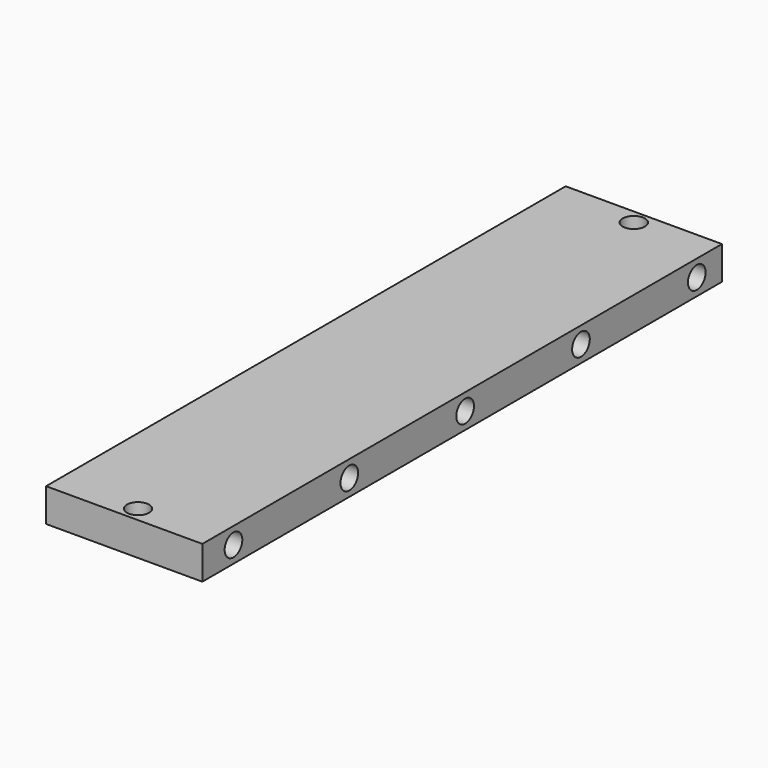
from build123d import *

# Parameters (mm, degrees)
F0_W     = 75.557
F0_H     = 16.102
F1_DEPTH = 313
F2_R     = 5.336
F3_DEPTH = 75.558
F4_DEPTH = 4
F5_DEPTH = 3
F6_R     = 5.363
F7_DEPTH = 25
F8_R     = 5.363
F9_DEPTH = 25


with BuildPart() as f1:
    # F0 (on Front) → F1 (new body)
    with BuildSketch(Plane.XZ):
        with Locations((-0.825944015, 22.4905000767)):
            Rectangle(F0_W, F0_H)
    extrude(amount=F1_DEPTH)

    # F2 (on face) → F3 (cut, through all)
    with BuildSketch(Plane(origin=(-38.604444015, 0, 0), x_dir=(0, -1, 0), z_dir=(-1, 0, 0))):
        with Locations((18.192, 22.4905000767)):
            Circle(F2_R)
        with Locations((88.192, 22.4905000767)):
            Circle(F2_R)
        with Locations((158.192, 22.4905000767)):
            Circle(F2_R)
        with Locations((228.192, 22.4905000767)):
            Circle(F2_R)
        with Locations((298.192, 22.4905000767)):
            Circle(F2_R)
    extrude(amount=-F3_DEPTH, mode=Mode.SUBTRACT)

    # F4 (add): a face of the model
    f4_faces = [f1.faces().sort_by_distance(p)[0] for p in [
        (-0.825944015, -313, 22.4905000767),
    ]]
    extrude(f4_faces, amount=F4_DEPTH)

    # F5 (cut): a face of the model
    f5_faces = [f1.faces().sort_by_distance(p)[0] for p in [
        (-0.825944015, 0, 22.4905000767),
    ]]
    extrude(f5_faces, amount=-F5_DEPTH, mode=Mode.SUBTRACT)

    # F6 (on face) → F7 (cut)
    with BuildSketch(Plane(origin=(0, 0, 14.4395000767), x_dir=(1, 0, 0), z_dir=(0, 0, -1))):
        with Locations((0, 309.6801936626)):
            Circle(F6_R)
    extrude(amount=-F7_DEPTH, mode=Mode.SUBTRACT)

    # F8 (on face) → F9 (cut)
    with BuildSketch(Plane(origin=(0, 0, 14.4395000767), x_dir=(1, 0, 0), z_dir=(0, 0, -1))):
        with Locations((0, 10.0503147011)):
            Circle(F8_R)
    extrude(amount=-F9_DEPTH, mode=Mode.SUBTRACT)


solid = f1.part
